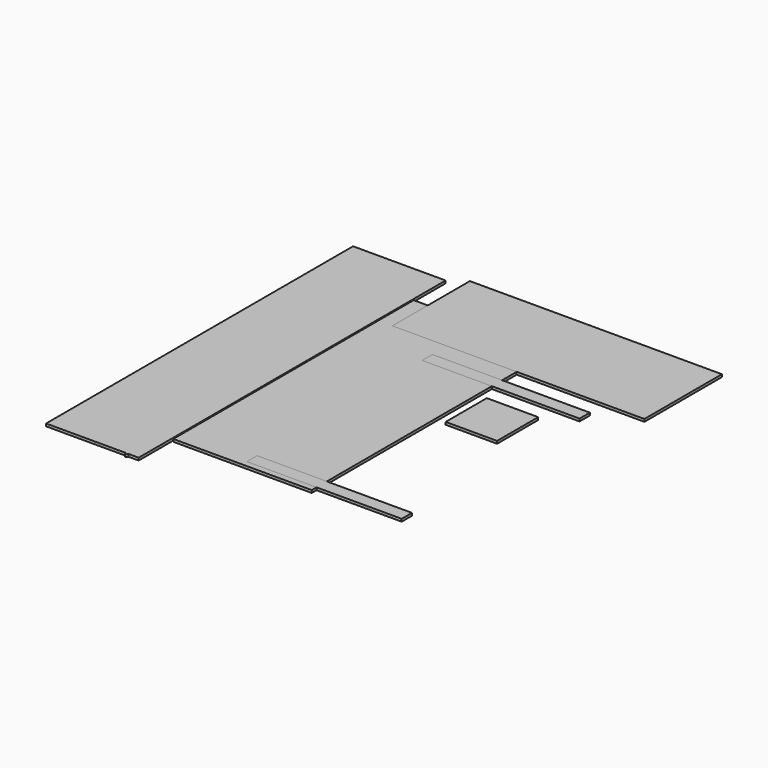
from build123d import *

# Parameters (mm, degrees)
F2_DEPTH = 25
F0_W     = 500
F0_H     = 500
F1_W     = 2450
F1_H     = 942
F1_W_2   = 1505.0055859834
F1_H_2   = 125
F1_R     = 15
F1_W_3   = 1529.9445597557
F1_W_4   = 500
F1_H_3   = 500


with BuildPart() as f2:
    # F0 (on Top) → F2 (new body)
    with BuildSketch(Plane.XY):
        Polygon((462.9, 1460.5), (462.9, 0), (462.9, -1460.5), (1809.1, -1460.5), (1809.1, 1460.5), align=None)
    extrude(amount=F2_DEPTH)


with BuildPart() as f2b:
    # F0 (on Top) → F2, piece 2 (new body)
    with BuildSketch(Plane.XY):
        with Locations((2152, 300)):
            Rectangle(F0_W, F0_H)
    extrude(amount=F2_DEPTH)


with BuildPart() as f2c:
    # F1 (on Top) → F2, piece 3 (new body)
    with BuildSketch(Plane.XY):
        with Locations((1825, 1501)):
            Rectangle(F1_W, F1_H)
    extrude(amount=F2_DEPTH)


with BuildPart() as f2d:
    # F1 (on Top) → F2, piece 4 (new body)
    with BuildSketch(Plane.XY):
        with BuildLine():
            Line((349.9616857612, -1865), (450, -1865))
            Line((450, -1865), (450, 1865))
            Line((450, 1865), (-450, 1865))
            Line((-450, 1865), (-450, 0))
            Line((-450, 0), (-450, -1865))
            Line((-450, -1865), (320.0383142388, -1865))
            ThreePointArc((320.0383142388, -1865), (335, -1851.0714285714), (349.9616857612, -1865))
        make_face()
        with BuildLine():
            ThreePointArc((350, -1866.0714285714), (349.99041838, -1865.5353718663), (349.9616857612, -1865))
            Line((349.9616857612, -1865), (320.0383142388, -1865))
            ThreePointArc((320.0383142388, -1865), (334.4639432948, -1881.0618469515), (350, -1866.0714285714))
        make_face()
        with BuildLine():
            Line((320.0383142388, -1865), (349.9616857612, -1865))
            ThreePointArc((349.9616857612, -1865), (335, -1851.0714285714), (320.0383142388, -1865))
        make_face()
    extrude(amount=F2_DEPTH)


with BuildPart() as f2e:
    # F1 (on Top) → F2, piece 5 (new body)
    with BuildSketch(Plane.XY):
        with Locations((1884.5027929917, -1340)):
            Rectangle(F1_W_2, F1_H_2)
        with Locations((1202, -1340)):
            Circle(F1_R, mode=Mode.SUBTRACT)
        with Locations((1202, -1340)):
            Circle(F1_R)
    extrude(amount=F2_DEPTH)


with BuildPart() as f2f:
    # F1 (on Top) → F2, piece 6 (new body)
    with BuildSketch(Plane.XY):
        with Locations((1896.9722798778, 790)):
            Rectangle(F1_W_3, F1_H_2)
        with Locations((1202, 790)):
            Circle(F1_R, mode=Mode.SUBTRACT)
        with Locations((1202, 790)):
            Circle(F1_R)
    extrude(amount=F2_DEPTH)


with BuildPart() as f2g:
    # F1 (on Top) → F2, piece 7 (new body)
    with BuildSketch(Plane.XY):
        with Locations((2152, 300)):
            Rectangle(F1_W_4, F1_H_3)
    extrude(amount=F2_DEPTH)


solid = Compound([f2.part, f2b.part, f2c.part, f2d.part, f2e.part, f2f.part, f2g.part])
